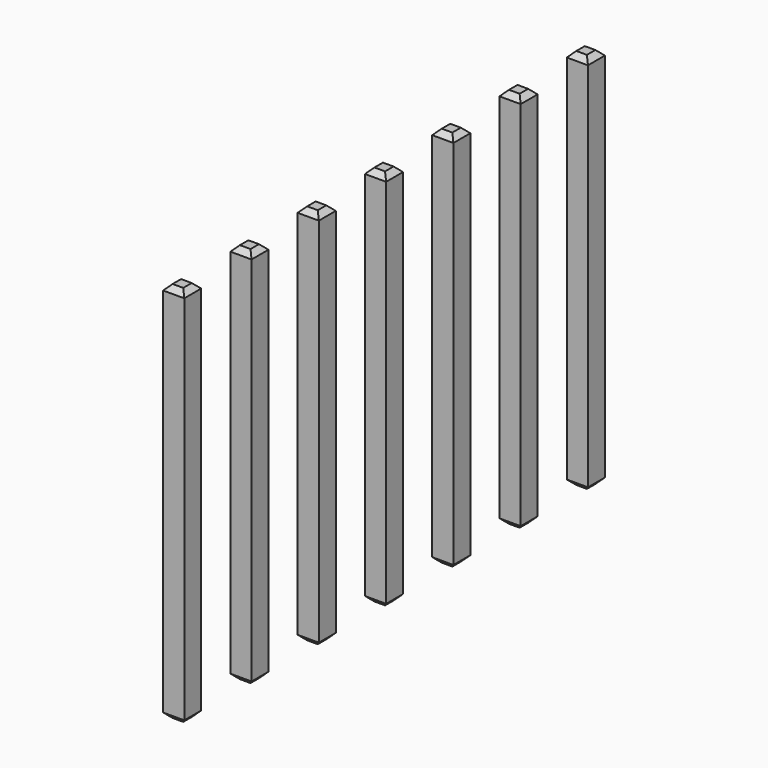
from build123d import *

# Parameters (mm, degrees)
SKETCH015_W      = 0.64
SKETCH015_H      = 0.64
PAD010_DEPTH     = 5.54
PAD011_DEPTH     = 6
CHAMFER_SIZE     = 0.16
ARRAY001_Y_COUNT = 7
ARRAY001_Y_PITCH = 2.54


with BuildPart() as part:
    # Sketch015 → Pad010 (new body)
    with BuildSketch(Plane.XY):
        with Locations((-7.75, 7.62)):
            Rectangle(SKETCH015_W, SKETCH015_H)
    extrude(amount=PAD010_DEPTH)

    # Sketch015 → Pad011 (join)
    with BuildSketch(Plane.XY):
        with Locations((-7.75, 7.62)):
            Rectangle(SKETCH015_W, SKETCH015_H)
    extrude(amount=-PAD011_DEPTH)

    # Chamfer
    chamfer_edges = [part.edges().sort_by_distance(p)[0] for p in [
        (-7.75, 7.3, 5.54),
        (-7.43, 7.62, 5.54),
        (-7.75, 7.94, 5.54),
        (-8.07, 7.62, 5.54),
        (-7.75, 7.3, -6),
        (-7.43, 7.62, -6),
        (-7.75, 7.94, -6),
        (-8.07, 7.62, -6),
    ]]
    chamfer(chamfer_edges, length=CHAMFER_SIZE)

    # Array001 Y: part ×7


with BuildPart() as part_1:
    add(part.part)
    with Locations(*[(0, -i * ARRAY001_Y_PITCH, 0) for i in range(1, ARRAY001_Y_COUNT)]):
        add(part.part)


with BuildPart() as part_2:
    # Clone placement: moved
    add(part_1.part.moved(Location((15.5, 0, 0))))


solid = part_2.part
